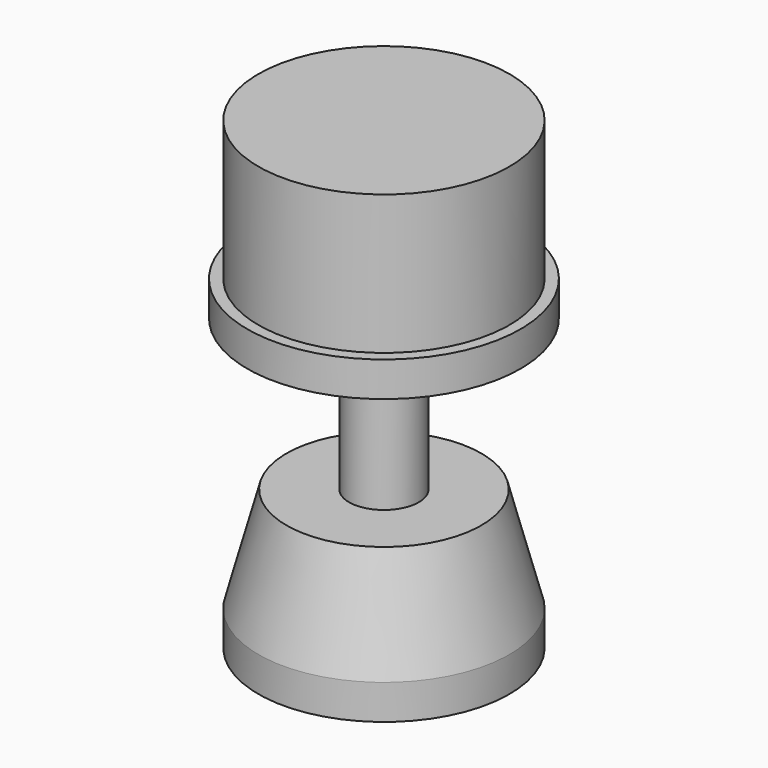
from build123d import *


with BuildPart() as f1:
    # F0 (on Right) → F1 (revolve)
    with BuildSketch(Plane.YZ):
        Polygon((0, 10.57275), (0, 1.27), (1.5875, 1.27), (1.5875, 0), (2.8575, 0), (2.8575, 0.79375), (2.219446, 3.175), (0.79375, 3.175), (0.79375, 6.604), (3.1115, 6.604), (3.1115, 7.39775), (2.8575, 7.39775), (2.8575, 10.57275), align=None)
    revolve(axis=Axis((0, 0, 5.286375), (0, 0, 1)))


solid = f1.part
